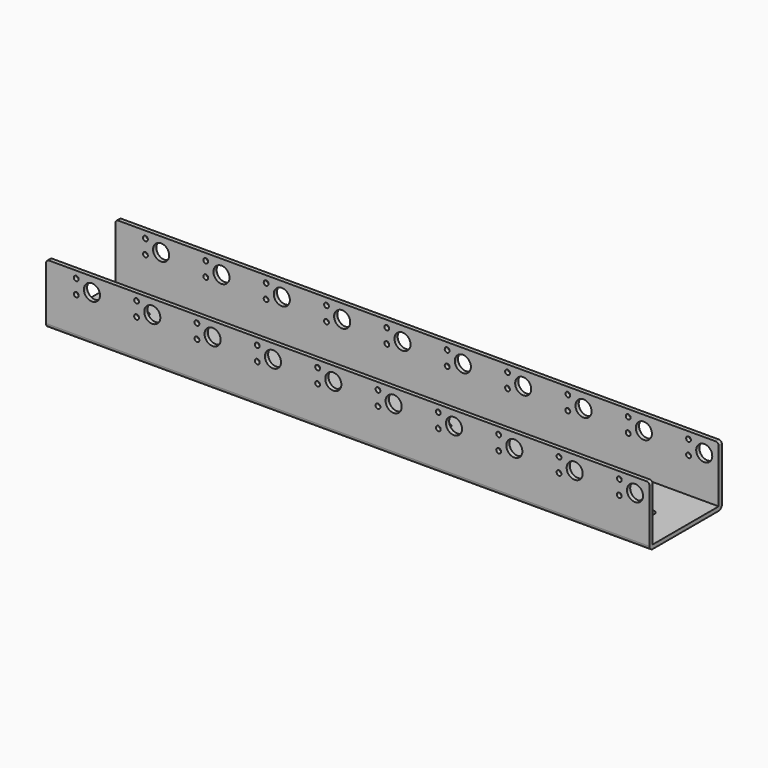
from build123d import *

# Parameters (mm, degrees)
F0_W     = 2
F0_H     = 28
F0_H_2   = 2
F0_W_2   = 41
F1_DEPTH = 150
F2_R     = 1.2
F2_R_2   = 4
F3_DEPTH = 45.001
F4_R     = 1.5
F5_R     = 2
F6_R     = 1.75
F6_W     = 2
F6_H     = 2
F7_DEPTH = 2
F8_R     = 3


with BuildPart() as f1:
    # F0 (on Right) → F1 (new body, symmetric)
    with BuildSketch(Plane.YZ):
        with Locations((1, 16)):
            Rectangle(F0_W, F0_H)
        with Locations((1, 1)):
            Rectangle(F0_W, F0_H_2)
        with Locations((22.5, 1)):
            Rectangle(F0_W_2, F0_H_2)
        with Locations((44, 1)):
            Rectangle(F0_W, F0_H_2)
        with Locations((44, 16)):
            Rectangle(F0_W, F0_H)
    extrude(amount=F1_DEPTH, both=True)

    # F2 (on face) → F3 (cut, through all)
    with BuildSketch(Plane.XZ):
        with Locations((-135, 26.55)):
            Circle(F2_R)
        with Locations((-135, 19.45)):
            Circle(F2_R)
        with Locations((-105, 26.55)):
            Circle(F2_R)
        with Locations((-105, 19.45)):
            Circle(F2_R)
        with Locations((-97.2, 23)):
            Circle(F2_R_2)
        with Locations((-67.2, 23)):
            Circle(F2_R_2)
        with Locations((-75, 26.55)):
            Circle(F2_R)
        with Locations((-75, 19.45)):
            Circle(F2_R)
        with Locations((-45, 19.45)):
            Circle(F2_R)
        with Locations((-7.2, 23)):
            Circle(F2_R_2)
        with Locations((-15, 26.55)):
            Circle(F2_R)
        with Locations((-127.2, 23)):
            Circle(F2_R_2)
        with Locations((-37.2, 23)):
            Circle(F2_R_2)
        with Locations((-45, 26.55)):
            Circle(F2_R)
        with Locations((-15, 19.45)):
            Circle(F2_R)
        with Locations((22.8, 23)):
            Circle(F2_R_2)
        with Locations((15, 26.55)):
            Circle(F2_R)
        with Locations((15, 19.45)):
            Circle(F2_R)
        with Locations((52.8, 23)):
            Circle(F2_R_2)
        with Locations((45, 26.55)):
            Circle(F2_R)
        with Locations((45, 19.45)):
            Circle(F2_R)
        with Locations((82.8, 23)):
            Circle(F2_R_2)
        with Locations((75, 19.45)):
            Circle(F2_R)
        with Locations((75, 26.55)):
            Circle(F2_R)
        with Locations((112.8, 23)):
            Circle(F2_R_2)
        with Locations((105, 26.55)):
            Circle(F2_R)
        with Locations((105, 19.45)):
            Circle(F2_R)
        with Locations((142.8, 23)):
            Circle(F2_R_2)
        with Locations((135, 26.55)):
            Circle(F2_R)
        with Locations((135, 19.45)):
            Circle(F2_R)
    extrude(amount=-F3_DEPTH, mode=Mode.SUBTRACT)

    # F4
    f4_edges = [f1.edges().sort_by_distance(p)[0] for p in [
        (-150, 44, 30),
        (150, 44, 30),
        (150, 1, 30),
        (-150, 1, 30),
    ]]
    fillet(f4_edges, radius=F4_R)

    # F5
    f5_edges = [f1.edges().sort_by_distance(p)[0] for p in [
        (0, 0, 0),
        (0, 45, 0),
    ]]
    fillet(f5_edges, radius=F5_R)

    # F6 (on face) → F7 (cut)
    with BuildSketch(Plane(origin=(0, 0, 0), x_dir=(1, 0, 0), z_dir=(0, 0, -1))):
        with Locations((0, -22.5)):
            Circle(F6_R)
        with Locations((-26, -23.5)):
            Rectangle(F6_W, F6_H)
        with Locations((-24, -23.5)):
            Rectangle(F6_W, F6_H)
        with BuildLine():
            Line((-23, -24.5), (-25, -24.5))
            Line((-25, -24.5), (-27, -24.5))
            Line((-27, -24.5), (-27, -30))
            ThreePointArc((-27, -30), (-25, -32), (-23, -30))
            Line((-23, -30), (-23, -24.5))
        make_face()
        with Locations((-26, -21.5)):
            Rectangle(F6_W, F6_H)
        with Locations((-24, -21.5)):
            Rectangle(F6_W, F6_H)
        with BuildLine():
            Line((-23, -22.5), (-23, -24.5))
            Line((-23, -24.5), (-17.5, -24.5))
            ThreePointArc((-17.5, -24.5), (-15.5, -22.5), (-17.5, -20.5))
            Line((-17.5, -20.5), (-23, -20.5))
            Line((-23, -20.5), (-23, -22.5))
        make_face()
        with BuildLine():
            Line((-32.5, -24.5), (-27, -24.5))
            Line((-27, -24.5), (-27, -22.5))
            Line((-27, -22.5), (-27, -20.5))
            Line((-27, -20.5), (-32.5, -20.5))
            ThreePointArc((-32.5, -20.5), (-34.5, -22.5), (-32.5, -24.5))
        make_face()
        with BuildLine():
            Line((-27, -20.5), (-25, -20.5))
            Line((-25, -20.5), (-23, -20.5))
            Line((-23, -20.5), (-23, -15))
            ThreePointArc((-23, -15), (-25, -13), (-27, -15))
            Line((-27, -15), (-27, -20.5))
        make_face()
        with BuildLine():
            ThreePointArc((-82.5, -20.5), (-84.5, -22.5), (-82.5, -24.5))
            Line((-82.5, -24.5), (-77, -24.5))
            Line((-77, -24.5), (-77, -22.5))
            Line((-77, -22.5), (-77, -20.5))
            Line((-77, -20.5), (-82.5, -20.5))
        make_face()
        with Locations((-76, -23.5)):
            Rectangle(F6_W, F6_H)
        with BuildLine():
            Line((-75, -24.5), (-77, -24.5))
            Line((-77, -24.5), (-77, -30))
            ThreePointArc((-77, -30), (-75, -32), (-73, -30))
            Line((-73, -30), (-73, -24.5))
            Line((-73, -24.5), (-75, -24.5))
        make_face()
        with Locations((-76, -21.5)):
            Rectangle(F6_W, F6_H)
        with BuildLine():
            Line((-77, -15), (-77, -20.5))
            Line((-77, -20.5), (-75, -20.5))
            Line((-75, -20.5), (-73, -20.5))
            Line((-73, -20.5), (-73, -15))
            ThreePointArc((-73, -15), (-75, -13), (-77, -15))
        make_face()
        with Locations((-74, -23.5)):
            Rectangle(F6_W, F6_H)
        with Locations((-74, -21.5)):
            Rectangle(F6_W, F6_H)
        with BuildLine():
            Line((-73, -22.5), (-73, -24.5))
            Line((-73, -24.5), (-67.5, -24.5))
            ThreePointArc((-67.5, -24.5), (-65.5, -22.5), (-67.5, -20.5))
            Line((-67.5, -20.5), (-73, -20.5))
            Line((-73, -20.5), (-73, -22.5))
        make_face()
        with BuildLine():
            ThreePointArc((-132.5, -20.5), (-134.5, -22.5), (-132.5, -24.5))
            Line((-132.5, -24.5), (-127, -24.5))
            Line((-127, -24.5), (-127, -22.5))
            Line((-127, -22.5), (-127, -20.5))
            Line((-127, -20.5), (-132.5, -20.5))
        make_face()
        with Locations((-126, -23.5)):
            Rectangle(F6_W, F6_H)
        with BuildLine():
            Line((-125, -24.5), (-127, -24.5))
            Line((-127, -24.5), (-127, -30))
            ThreePointArc((-127, -30), (-125, -32), (-123, -30))
            Line((-123, -30), (-123, -24.5))
            Line((-123, -24.5), (-125, -24.5))
        make_face()
        with Locations((-126, -21.5)):
            Rectangle(F6_W, F6_H)
        with BuildLine():
            Line((-127, -15), (-127, -20.5))
            Line((-127, -20.5), (-125, -20.5))
            Line((-125, -20.5), (-123, -20.5))
            Line((-123, -20.5), (-123, -15))
            ThreePointArc((-123, -15), (-125, -13), (-127, -15))
        make_face()
        with Locations((-124, -23.5)):
            Rectangle(F6_W, F6_H)
        with Locations((-124, -21.5)):
            Rectangle(F6_W, F6_H)
        with BuildLine():
            Line((-123, -22.5), (-123, -24.5))
            Line((-123, -24.5), (-117.5, -24.5))
            ThreePointArc((-117.5, -24.5), (-115.5, -22.5), (-117.5, -20.5))
            Line((-117.5, -20.5), (-123, -20.5))
            Line((-123, -20.5), (-123, -22.5))
        make_face()
        with Locations((24, -23.5)):
            Rectangle(F6_W, F6_H)
        with Locations((26, -23.5)):
            Rectangle(F6_W, F6_H)
        with BuildLine():
            Line((27, -24.5), (25, -24.5))
            Line((25, -24.5), (23, -24.5))
            Line((23, -24.5), (23, -30))
            ThreePointArc((23, -30), (25, -32), (27, -30))
            Line((27, -30), (27, -24.5))
        make_face()
        with Locations((24, -21.5)):
            Rectangle(F6_W, F6_H)
        with Locations((26, -21.5)):
            Rectangle(F6_W, F6_H)
        with BuildLine():
            Line((27, -22.5), (27, -24.5))
            Line((27, -24.5), (32.5, -24.5))
            ThreePointArc((32.5, -24.5), (34.5, -22.5), (32.5, -20.5))
            Line((32.5, -20.5), (27, -20.5))
            Line((27, -20.5), (27, -22.5))
        make_face()
        with BuildLine():
            Line((17.5, -24.5), (23, -24.5))
            Line((23, -24.5), (23, -22.5))
            Line((23, -22.5), (23, -20.5))
            Line((23, -20.5), (17.5, -20.5))
            ThreePointArc((17.5, -20.5), (15.5, -22.5), (17.5, -24.5))
        make_face()
        with BuildLine():
            Line((23, -20.5), (25, -20.5))
            Line((25, -20.5), (27, -20.5))
            Line((27, -20.5), (27, -15))
            ThreePointArc((27, -15), (25, -13), (23, -15))
            Line((23, -15), (23, -20.5))
        make_face()
        with Locations((74, -23.5)):
            Rectangle(F6_W, F6_H)
        with Locations((76, -23.5)):
            Rectangle(F6_W, F6_H)
        with BuildLine():
            Line((77, -24.5), (75, -24.5))
            Line((75, -24.5), (73, -24.5))
            Line((73, -24.5), (73, -30))
            ThreePointArc((73, -30), (75, -32), (77, -30))
            Line((77, -30), (77, -24.5))
        make_face()
        with Locations((74, -21.5)):
            Rectangle(F6_W, F6_H)
        with Locations((76, -21.5)):
            Rectangle(F6_W, F6_H)
        with BuildLine():
            Line((77, -22.5), (77, -24.5))
            Line((77, -24.5), (82.5, -24.5))
            ThreePointArc((82.5, -24.5), (84.5, -22.5), (82.5, -20.5))
            Line((82.5, -20.5), (77, -20.5))
            Line((77, -20.5), (77, -22.5))
        make_face()
        with BuildLine():
            Line((67.5, -24.5), (73, -24.5))
            Line((73, -24.5), (73, -22.5))
            Line((73, -22.5), (73, -20.5))
            Line((73, -20.5), (67.5, -20.5))
            ThreePointArc((67.5, -20.5), (65.5, -22.5), (67.5, -24.5))
        make_face()
        with BuildLine():
            Line((73, -20.5), (75, -20.5))
            Line((75, -20.5), (77, -20.5))
            Line((77, -20.5), (77, -15))
            ThreePointArc((77, -15), (75, -13), (73, -15))
            Line((73, -15), (73, -20.5))
        make_face()
        with Locations((124, -23.5)):
            Rectangle(F6_W, F6_H)
        with Locations((126, -23.5)):
            Rectangle(F6_W, F6_H)
        with BuildLine():
            Line((127, -24.5), (125, -24.5))
            Line((125, -24.5), (123, -24.5))
            Line((123, -24.5), (123, -30))
            ThreePointArc((123, -30), (125, -32), (127, -30))
            Line((127, -30), (127, -24.5))
        make_face()
        with Locations((124, -21.5)):
            Rectangle(F6_W, F6_H)
        with Locations((126, -21.5)):
            Rectangle(F6_W, F6_H)
        with BuildLine():
            Line((127, -22.5), (127, -24.5))
            Line((127, -24.5), (132.5, -24.5))
            ThreePointArc((132.5, -24.5), (134.5, -22.5), (132.5, -20.5))
            Line((132.5, -20.5), (127, -20.5))
            Line((127, -20.5), (127, -22.5))
        make_face()
        with BuildLine():
            Line((117.5, -24.5), (123, -24.5))
            Line((123, -24.5), (123, -22.5))
            Line((123, -22.5), (123, -20.5))
            Line((123, -20.5), (117.5, -20.5))
            ThreePointArc((117.5, -20.5), (115.5, -22.5), (117.5, -24.5))
        make_face()
        with BuildLine():
            Line((123, -20.5), (125, -20.5))
            Line((125, -20.5), (127, -20.5))
            Line((127, -20.5), (127, -15))
            ThreePointArc((127, -15), (125, -13), (123, -15))
            Line((123, -15), (123, -20.5))
        make_face()
    extrude(amount=-F7_DEPTH, mode=Mode.SUBTRACT)

    # F8
    f8_edges = [f1.edges().sort_by_distance(p)[0] for p in [
        (123, 20.5, 1),
        (127, 20.5, 1),
        (77, 20.5, 1),
        (27, 20.5, 1),
        (23, 20.5, 1),
        (-23, 20.5, 1),
        (-27, 20.5, 1),
        (-73, 20.5, 1),
        (-77, 20.5, 1),
        (-123, 20.5, 1),
        (-127, 20.5, 1),
        (-127, 24.5, 1),
        (-123, 24.5, 1),
        (-77, 24.5, 1),
        (-73, 24.5, 1),
        (-27, 24.5, 1),
        (-23, 24.5, 1),
        (27, 24.5, 1),
        (23, 24.5, 1),
        (77, 24.5, 1),
        (73, 24.5, 1),
        (127, 24.5, 1),
        (123, 24.5, 1),
        (73, 20.5, 1),
    ]]
    fillet(f8_edges, radius=F8_R)


solid = f1.part
